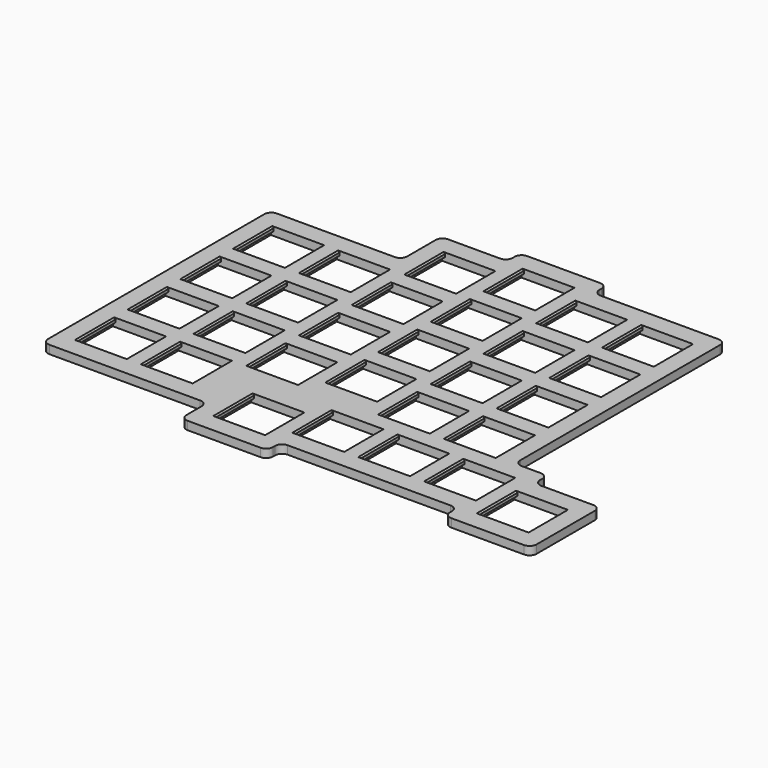
from build123d import *

# Parameters (mm, degrees)
SKETCH_W     = 14.15
SKETCH_H     = 14.15
PAD_DEPTH    = 2.4
SKETCH001_W  = 15.75
SKETCH001_H  = 14.15
POCKET_DEPTH = 1.2
FILLET_R     = 2
CHAMFER_SIZE = 0.4


with BuildPart() as part:
    # Sketch → Pad (new body)
    with BuildSketch(Plane.XY):
        Polygon((12.5, 50.5), (12.5, -25.5), (22, -25.5), (22, -30.25), (41, -30.25), (41, -55.25), (16, -55.25), (16, -50.5), (-35, -50.5), (-35, -55.25), (-60, -55.25), (-60, -45.75), (-107.5, -45.75), (-107.5, 36.25), (-69.5, 36.25), (-69.5, 50.5), (-50.5, 50.5), (-50.5, 55.25), (-25.5, 55.25), (-25.5, 50.5), align=None)
        Rectangle(SKETCH_W, SKETCH_H, mode=Mode.SUBTRACT)
        with Locations((0, -19)):
            Rectangle(SKETCH_W, SKETCH_H, mode=Mode.SUBTRACT)
        with Locations((0, 19)):
            Rectangle(SKETCH_W, SKETCH_H, mode=Mode.SUBTRACT)
        with Locations((0, 38)):
            Rectangle(SKETCH_W, SKETCH_H, mode=Mode.SUBTRACT)
        with Locations((-19, 38)):
            Rectangle(SKETCH_W, SKETCH_H, mode=Mode.SUBTRACT)
        with Locations((-19, 19)):
            Rectangle(SKETCH_W, SKETCH_H, mode=Mode.SUBTRACT)
        with Locations((-19, 0)):
            Rectangle(SKETCH_W, SKETCH_H, mode=Mode.SUBTRACT)
        with Locations((-19, -19)):
            Rectangle(SKETCH_W, SKETCH_H, mode=Mode.SUBTRACT)
        with Locations((-38, 42.75)):
            Rectangle(SKETCH_W, SKETCH_H, mode=Mode.SUBTRACT)
        with Locations((-38, 23.75)):
            Rectangle(SKETCH_W, SKETCH_H, mode=Mode.SUBTRACT)
        with Locations((-38, 4.75)):
            Rectangle(SKETCH_W, SKETCH_H, mode=Mode.SUBTRACT)
        with Locations((-38, -14.25)):
            Rectangle(SKETCH_W, SKETCH_H, mode=Mode.SUBTRACT)
        with Locations((-57, 38)):
            Rectangle(SKETCH_W, SKETCH_H, mode=Mode.SUBTRACT)
        with Locations((-57, 19)):
            Rectangle(SKETCH_W, SKETCH_H, mode=Mode.SUBTRACT)
        with Locations((-57, 0)):
            Rectangle(SKETCH_W, SKETCH_H, mode=Mode.SUBTRACT)
        with Locations((-57, -19)):
            Rectangle(SKETCH_W, SKETCH_H, mode=Mode.SUBTRACT)
        with Locations((-76, 23.75)):
            Rectangle(SKETCH_W, SKETCH_H, mode=Mode.SUBTRACT)
        with Locations((-95, 23.75)):
            Rectangle(SKETCH_W, SKETCH_H, mode=Mode.SUBTRACT)
        with Locations((-76, 4.75)):
            Rectangle(SKETCH_W, SKETCH_H, mode=Mode.SUBTRACT)
        with Locations((-76, -14.25)):
            Rectangle(SKETCH_W, SKETCH_H, mode=Mode.SUBTRACT)
        with Locations((-76, -33.25)):
            Rectangle(SKETCH_W, SKETCH_H, mode=Mode.SUBTRACT)
        with Locations((-95, 4.75)):
            Rectangle(SKETCH_W, SKETCH_H, mode=Mode.SUBTRACT)
        with Locations((-95, -14.25)):
            Rectangle(SKETCH_W, SKETCH_H, mode=Mode.SUBTRACT)
        with Locations((-95, -33.25)):
            Rectangle(SKETCH_W, SKETCH_H, mode=Mode.SUBTRACT)
        with Locations((-9.5, -38)):
            Rectangle(SKETCH_W, SKETCH_H, mode=Mode.SUBTRACT)
        with Locations((9.5, -38)):
            Rectangle(SKETCH_W, SKETCH_H, mode=Mode.SUBTRACT)
        with Locations((-28.5, -38)):
            Rectangle(SKETCH_W, SKETCH_H, mode=Mode.SUBTRACT)
        with Locations((28.5, -42.75)):
            Rectangle(SKETCH_W, SKETCH_H, mode=Mode.SUBTRACT)
        with Locations((-47.5, -42.75)):
            Rectangle(SKETCH_W, SKETCH_H, mode=Mode.SUBTRACT)
    extrude(amount=PAD_DEPTH)

    # Sketch001 → Pocket (cut)
    with BuildSketch(Plane.XY):
        Rectangle(SKETCH001_W, SKETCH001_H)
        with Locations((0, -19)):
            Rectangle(SKETCH001_W, SKETCH001_H)
        with Locations((0, 19)):
            Rectangle(SKETCH001_W, SKETCH001_H)
        with Locations((0, 38)):
            Rectangle(SKETCH001_W, SKETCH001_H)
        with Locations((-19, 38)):
            Rectangle(SKETCH001_W, SKETCH001_H)
        with Locations((-19, 19)):
            Rectangle(SKETCH001_W, SKETCH001_H)
        with Locations((-19, 0)):
            Rectangle(SKETCH001_W, SKETCH001_H)
        with Locations((-19, -19)):
            Rectangle(SKETCH001_W, SKETCH001_H)
        with Locations((-38, 42.75)):
            Rectangle(SKETCH001_W, SKETCH001_H)
        with Locations((-38, 23.75)):
            Rectangle(SKETCH001_W, SKETCH001_H)
        with Locations((-38, 4.75)):
            Rectangle(SKETCH001_W, SKETCH001_H)
        with Locations((-38, -14.25)):
            Rectangle(SKETCH001_W, SKETCH001_H)
        with Locations((-57, 38)):
            Rectangle(SKETCH001_W, SKETCH001_H)
        with Locations((-57, 19)):
            Rectangle(SKETCH001_W, SKETCH001_H)
        with Locations((-57, 0)):
            Rectangle(SKETCH001_W, SKETCH001_H)
        with Locations((-57, -19)):
            Rectangle(SKETCH001_W, SKETCH001_H)
        with Locations((-76, 23.75)):
            Rectangle(SKETCH001_W, SKETCH001_H)
        with Locations((-95, 23.75)):
            Rectangle(SKETCH001_W, SKETCH001_H)
        with Locations((-76, 4.75)):
            Rectangle(SKETCH001_W, SKETCH001_H)
        with Locations((-76, -14.25)):
            Rectangle(SKETCH001_W, SKETCH001_H)
        with Locations((-76, -33.25)):
            Rectangle(SKETCH001_W, SKETCH001_H)
        with Locations((-95, 4.75)):
            Rectangle(SKETCH001_W, SKETCH001_H)
        with Locations((-95, -14.25)):
            Rectangle(SKETCH001_W, SKETCH001_H)
        with Locations((-95, -33.25)):
            Rectangle(SKETCH001_W, SKETCH001_H)
        with Locations((-9.5, -38)):
            Rectangle(SKETCH001_W, SKETCH001_H)
        with Locations((9.5, -38)):
            Rectangle(SKETCH001_W, SKETCH001_H)
        with Locations((-28.5, -38)):
            Rectangle(SKETCH001_W, SKETCH001_H)
        with Locations((28.5, -42.75)):
            Rectangle(SKETCH001_W, SKETCH001_H)
        with Locations((-47.5, -42.75)):
            Rectangle(SKETCH001_W, SKETCH001_H)
    extrude(amount=POCKET_DEPTH, mode=Mode.SUBTRACT)

    # Fillet
    fillet_edges = [part.edges().sort_by_distance(p)[0] for p in [
        (-107.5, 36.25, 1.2),
        (-107.5, -45.75, 1.2),
        (-60, -45.75, 1.2),
        (-60, -55.25, 1.2),
        (-35, -55.25, 1.2),
        (-35, -50.5, 1.2),
        (16, -50.5, 1.2),
        (16, -55.25, 1.2),
        (41, -55.25, 1.2),
        (41, -30.25, 1.2),
        (22, -30.25, 1.2),
        (22, -25.5, 1.2),
        (12.5, -25.5, 1.2),
        (12.5, 50.5, 1.2),
        (-25.5, 50.5, 1.2),
        (-25.5, 55.25, 1.2),
        (-50.5, 55.25, 1.2),
        (-50.5, 50.5, 1.2),
        (-69.5, 50.5, 1.2),
        (-69.5, 36.25, 1.2),
    ]]
    fillet(fillet_edges, radius=FILLET_R)

    # Chamfer
    chamfer_edges = [part.edges().sort_by_distance(p)[0] for p in [
        (-102.075, -33.25, 2.4),
        (-102.075, -14.25, 2.4),
        (-102.075, 4.75, 2.4),
        (-102.075, 23.75, 2.4),
        (-87.925, 23.75, 2.4),
        (-87.925, 4.75, 2.4),
        (-87.925, -14.25, 2.4),
        (-87.925, -33.25, 2.4),
        (-83.075, -33.25, 2.4),
        (-83.075, -14.25, 2.4),
        (-83.075, 4.75, 2.4),
        (-83.075, 23.75, 2.4),
        (-68.925, 23.75, 2.4),
        (-68.925, 4.75, 2.4),
        (-68.925, -14.25, 2.4),
        (-68.925, -33.25, 2.4),
        (-64.075, -19, 2.4),
        (-64.075, 0, 2.4),
        (-64.075, 19, 2.4),
        (-64.075, 38, 2.4),
        (-49.925, 38, 2.4),
        (-49.925, 19, 2.4),
        (-49.925, 0, 2.4),
        (-49.925, -19, 2.4),
        (-45.075, -14.25, 2.4),
        (-30.925, -14.25, 2.4),
        (-45.075, 4.75, 2.4),
        (-30.925, 4.75, 2.4),
        (-30.925, 23.75, 2.4),
        (-45.075, 23.75, 2.4),
        (-45.075, 42.75, 2.4),
        (-30.925, 42.75, 2.4),
        (-26.075, 38, 2.4),
        (-26.075, 19, 2.4),
        (-26.075, 0, 2.4),
        (-26.075, -19, 2.4),
        (-11.925, -19, 2.4),
        (-11.925, 0, 2.4),
        (-11.925, 19, 2.4),
        (-11.925, 38, 2.4),
        (-7.075, 38, 2.4),
        (-7.075, 19, 2.4),
        (-7.075, 0, 2.4),
        (-7.075, -19, 2.4),
        (7.075, -19, 2.4),
        (7.075, 0, 2.4),
        (7.075, 19, 2.4),
        (7.075, 38, 2.4),
        (-54.575, -42.75, 2.4),
        (-40.425, -42.75, 2.4),
        (-35.575, -38, 2.4),
        (-21.425, -38, 2.4),
        (-16.575, -38, 2.4),
        (-2.425, -38, 2.4),
        (2.425, -38, 2.4),
        (16.575, -38, 2.4),
        (21.425, -42.75, 2.4),
        (35.575, -42.75, 2.4),
    ]]
    chamfer(chamfer_edges, length=CHAMFER_SIZE)


solid = part.part
